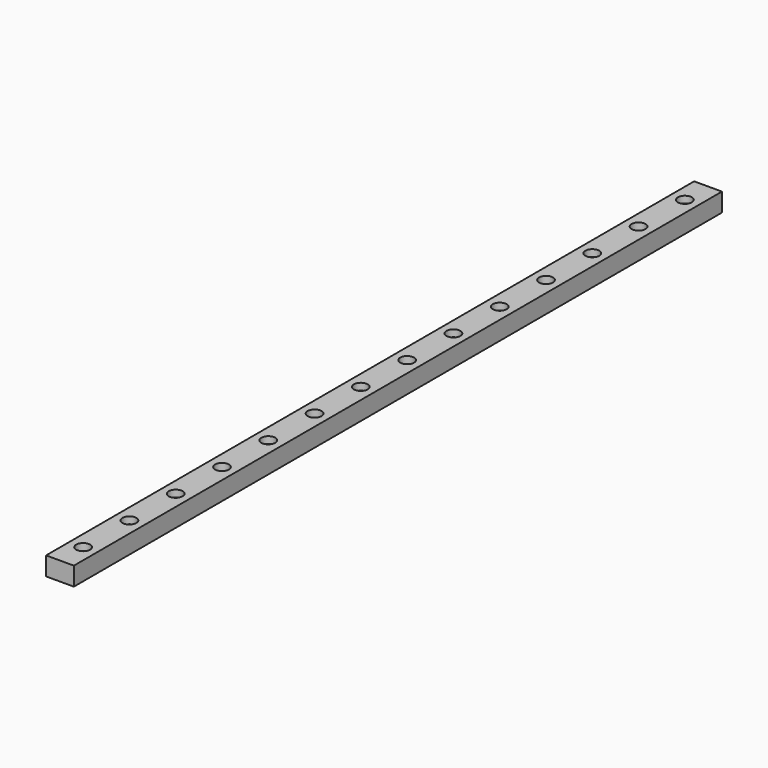
from build123d import *

# Parameters (mm, degrees)
F0_W           = 12
F0_H           = 8
F1_DEPTH       = 175
F1_DEPTH_BACK  = 175
F3_D           = 3.5
F3_CBORE_D     = 6
F3_CBORE_DEPTH = 3


with BuildPart() as f1:
    # F0 (on Front) → F1 (new body, two sides)
    with BuildSketch(Plane.XZ) as f1_sk:
        Rectangle(F0_W, F0_H)
    extrude(amount=F1_DEPTH)
    extrude(f1_sk.sketch, amount=-F1_DEPTH_BACK)

    # F3 (through all)
    with Locations(Plane.XY.offset(4)):
        with Locations((0, -162.5), (0, -137.5), (0, -112.5), (0, -87.5), (0, -62.5), (0, -37.5), (0, -12.5), (0, 12.5), (0, 37.5), (0, 62.5), (0, 87.5), (0, 112.5), (0, 137.5), (0, 162.5)):
            CounterBoreHole(F3_D / 2, F3_CBORE_D / 2, F3_CBORE_DEPTH)


solid = f1.part
